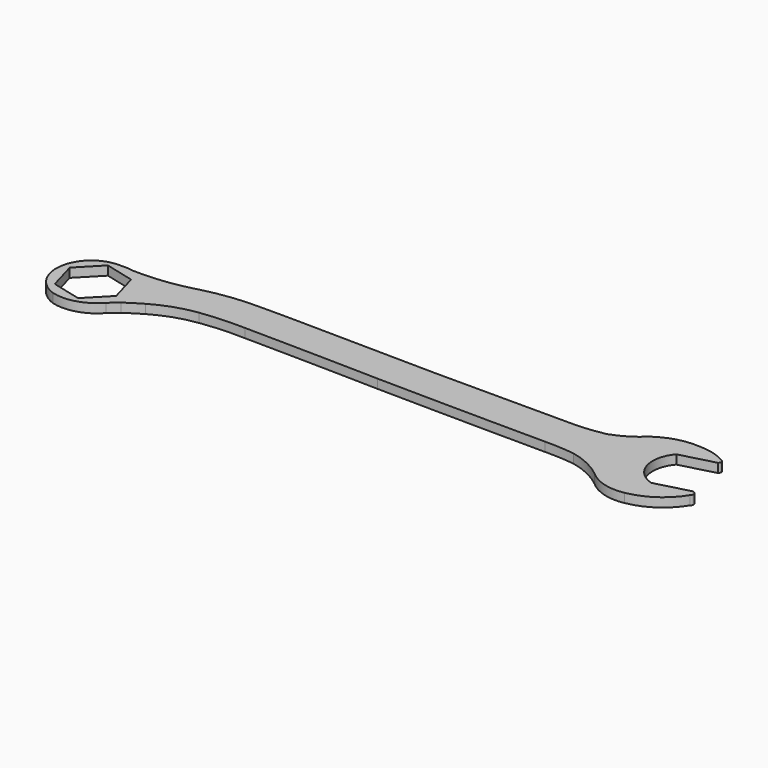
from build123d import *

# Parameters (mm, degrees)
F1_DEPTH = 6.35


with BuildPart() as f1:
    # F0 (on Top) → F1 (new body)
    with BuildSketch(Plane.XY):
        with BuildLine():
            Line((-76.661379, 153.948812), (-52.548358, 160.322296))
            ThreePointArc((-52.548358, 160.322296), (-51.705021, 162.044671), (-52.543301, 163.769513))
            ThreePointArc((-52.543301, 163.769513), (-61.955705, 167.786844), (-72.09263, 169.19221))
            ThreePointArc((-72.09263, 169.19221), (-87.308503, 167.778945), (-101.140298, 161.282673))
            ThreePointArc((-101.140298, 161.282673), (-110.517033, 154.009536), (-121.268414, 148.986638))
            ThreePointArc((-121.268414, 148.986638), (-132.613522, 147.24671), (-144.076511, 146.664739))
            Line((-144.076511, 146.664739), (-240.190983, 146.664739))
            Line((-240.190983, 146.664739), (-330.825746, 147.85777))
            ThreePointArc((-330.825746, 147.85777), (-351.756662, 148.0242), (-372.687578, 147.85777))
            ThreePointArc((-372.687578, 147.85777), (-387.737544, 146.369824), (-402.567655, 143.406168))
            ThreePointArc((-402.567655, 143.406168), (-411.865239, 141.070542), (-421.303749, 139.392823))
            ThreePointArc((-421.303749, 139.392823), (-433.098, 138.259792), (-444.945663, 138.114884))
            ThreePointArc((-444.945663, 138.114884), (-449.701989, 138.698677), (-454.49391, 138.668045))
            ThreePointArc((-454.49391, 138.668045), (-463.987575, 137.200788), (-472.194914, 132.208586))
            ThreePointArc((-472.194914, 132.208586), (-479.352407, 108.569234), (-462.965667, 90.088882))
            ThreePointArc((-462.965667, 90.088882), (-446.779314, 90.370183), (-433.1005, 99.028545))
            ThreePointArc((-433.1005, 99.028545), (-430.045222, 101.768019), (-426.948771, 104.460868))
            ThreePointArc((-426.948771, 104.460868), (-421.239995, 108.161198), (-415.43743, 111.712649))
            ThreePointArc((-415.43743, 111.712649), (-401.163739, 118.232778), (-385.890931, 121.837176))
            ThreePointArc((-385.890931, 121.837176), (-370.442732, 123.259082), (-354.929924, 123.405561))
            ThreePointArc((-354.929924, 123.405561), (-307.745618, 122.775747), (-260.566443, 121.837176))
            ThreePointArc((-260.566443, 121.837176), (-201.47108, 121.119774), (-142.372459, 120.7598))
            ThreePointArc((-142.372459, 120.7598), (-131.8006, 120.549843), (-121.268414, 119.61104))
            ThreePointArc((-121.268414, 119.61104), (-108.609561, 115.274226), (-97.314678, 108.099259))
            ThreePointArc((-97.314678, 108.099259), (-84.732809, 101.155364), (-70.373908, 100.569665))
            ThreePointArc((-70.373908, 100.569665), (-53.28113, 107.454796), (-40.531818, 120.7598))
            ThreePointArc((-40.531818, 120.7598), (-39.789307, 123.840421), (-42.669455, 125.161894))
            Line((-42.669455, 125.161894), (-66.154819, 118.954311))
            ThreePointArc((-66.154819, 118.954311), (-80.938734, 133.590135), (-76.661379, 153.948812))
        make_face()
        Polygon((-448.503748, 93.878887), (-468.941873, 99.043245), (-474.688471, 119.32536), (-459.996943, 134.443116), (-439.558817, 129.278758), (-433.81222, 108.996643), align=None, mode=Mode.SUBTRACT)
    extrude(amount=F1_DEPTH)


solid = f1.part
